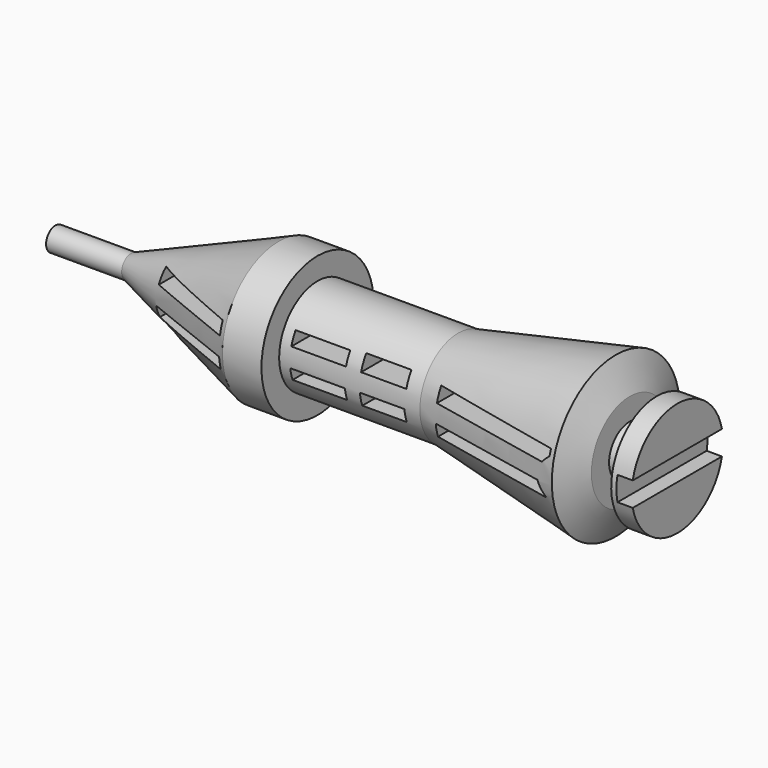
from build123d import *

# Parameters (mm, degrees)
F2_W     = 30.3143421188
F2_H     = 4.0757688694
F2_W_2   = 18.1842008606
F2_W_3   = 15.0489956141
F2_H_2   = 4.7028097324
F2_W_4   = 44.4351620972
F2_H_3   = 4.4586383738
F2_W_5   = 30.713875778
F2_H_4   = 3.954576212
F2_H_5   = 3.8227577461
F2_W_6   = 14.8049108684
F2_H_6   = 4.21821489
F3_DEPTH = 25.4
F4_W     = 41.5230542421
F4_H     = 8.040972054
F5_DEPTH = 5.08


with BuildPart() as f1:
    # F0 (on Front) → F1 (revolve)
    with BuildSketch(Plane.XZ):
        Polygon((-62.0642483835, 3.9065815508), (-87.20035851, 3.9065815508), (-87.20035851, 0), (119.7071522474, 0), (119.7071522474, 18.9729742706), (112.8823459148, 18.9729742706), (112.8823459148, 8.5992645472), (103.8735955954, 8.5992645472), (103.8735955954, 15.9700587392), (99.2327257991, 26.6167614609), (46.8181893229, 15.9700587392), (0, 15.9700587392), (0, 23.3408529311), (-12.9671432078, 23.3408529311), align=None)
    revolve(axis=Axis((16.2533968687, 0, 0), (1, 0, 0)))

    # F2 (on Front) → F3 (cut)
    with BuildSketch(Plane.XZ):
        with Locations((-29.8330406658, 6.2704191078)):
            Rectangle(F2_W, F2_H)
        with Locations((12.6975956373, 6.2704191078)):
            Rectangle(F2_W_2, F2_H)
        with Locations((34.3305245042, 6.5839395393)):
            Rectangle(F2_W_3, F2_H_2)
        with Locations((75.2912443131, 6.4618538599)):
            Rectangle(F2_W_4, F2_H_3)
        with Locations((-30.0328074954, -3.7906030775)):
            Rectangle(F2_W_5, F2_H_4)
        with Locations((12.6975956373, -3.8565123104)):
            Rectangle(F2_W_2, F2_H_5)
        with Locations((34.2084821314, -3.6587837385)):
            Rectangle(F2_W_6, F2_H_6)
        with Locations((75.2912443131, -3.6587837385)):
            Rectangle(F2_W_4, F2_H_6)
    extrude(amount=F3_DEPTH, mode=Mode.SUBTRACT)

    # F4 (on face) → F5 (cut)
    with BuildSketch(Plane.YZ.offset(119.7071522474)):
        Rectangle(F4_W, F4_H)
    extrude(amount=-F5_DEPTH, mode=Mode.SUBTRACT)


solid = f1.part
